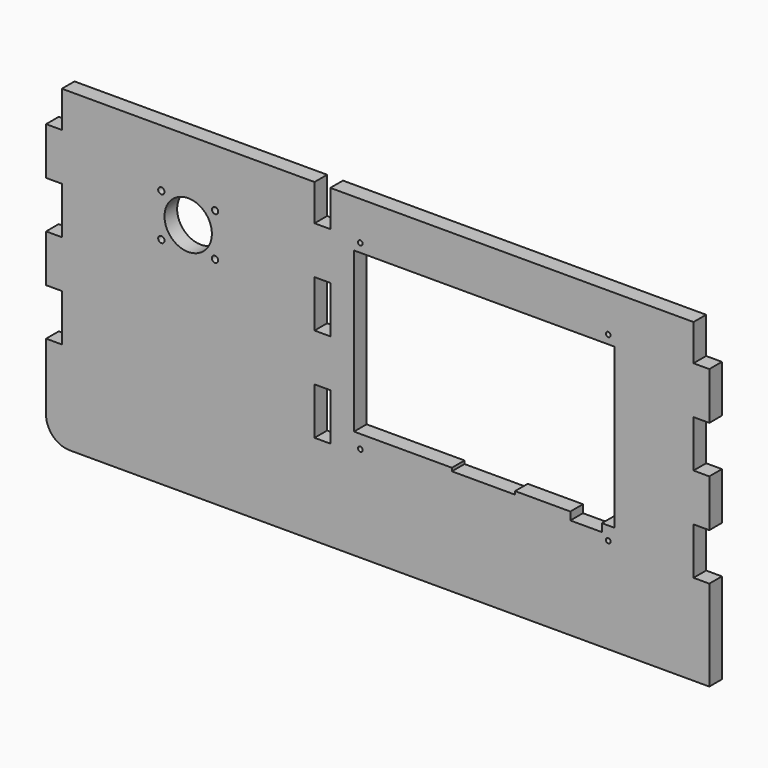
from build123d import *

# Parameters (mm, degrees)
SKETCH_W          = 10
SKETCH_H          = 29.8
PAD_DEPTH         = 10
COPYSKETCH001_R   = 2
COPYSKETCH001_R_2 = 15
POCKET_DEPTH      = 10.001
FILLET_R          = 15
SKETCH001_R       = 1.5
POCKET001_DEPTH   = 10.001


with BuildPart() as part:
    # Sketch → Pad (new body)
    with BuildSketch(Plane.XZ):
        Polygon((0, 0), (0, 57.4), (10, 57.4), (10, 87.2), (0, 87.2), (0, 117.2), (10, 117.2), (10, 147), (0, 147), (0, 177), (10, 177), (10, 200), (170, 200), (170, 177), (180, 177), (180, 200), (410, 200), (410, 177), (420, 177), (420, 147), (410, 147), (410, 117.2), (420, 117.2), (420, 87.2), (410, 87.2), (410, 57.4), (420, 57.4), (420, 0), align=None)
        with Locations((175, 132.1)):
            Rectangle(SKETCH_W, SKETCH_H, mode=Mode.SUBTRACT)
        with Locations((175, 72.3)):
            Rectangle(SKETCH_W, SKETCH_H, mode=Mode.SUBTRACT)
    extrude(amount=PAD_DEPTH)

    # CopySketch001 → Pocket (cut, through all)
    with BuildSketch(Plane.XZ):
        with Locations((73, 163.6)):
            Circle(COPYSKETCH001_R)
        with Locations((107, 163.6)):
            Circle(COPYSKETCH001_R)
        with Locations((107, 136.4)):
            Circle(COPYSKETCH001_R)
        with Locations((73, 136.4)):
            Circle(COPYSKETCH001_R)
        with Locations((90, 150)):
            Circle(COPYSKETCH001_R_2)
    extrude(amount=POCKET_DEPTH, mode=Mode.SUBTRACT)

    # Fillet
    fillet_edges = [part.edges().sort_by_distance(p)[0] for p in [
        (0, -5, 0),
    ]]
    fillet(fillet_edges, radius=FILLET_R)

    # Sketch001 → Pocket001 (cut, through all)
    with BuildSketch(Plane.XZ):
        with Locations((199, 175.5)):
            Circle(SKETCH001_R)
        with Locations((356, 175.5)):
            Circle(SKETCH001_R)
        with Locations((356, 60.5)):
            Circle(SKETCH001_R)
        with Locations((199, 60.5)):
            Circle(SKETCH001_R)
        Polygon((195, 170), (360, 170), (360, 69), (352, 69), (352, 64), (332, 64), (332, 69), (297, 69), (297, 67), (257, 67), (257, 69), (195, 69), align=None)
    extrude(amount=POCKET001_DEPTH, mode=Mode.SUBTRACT)


solid = part.part
